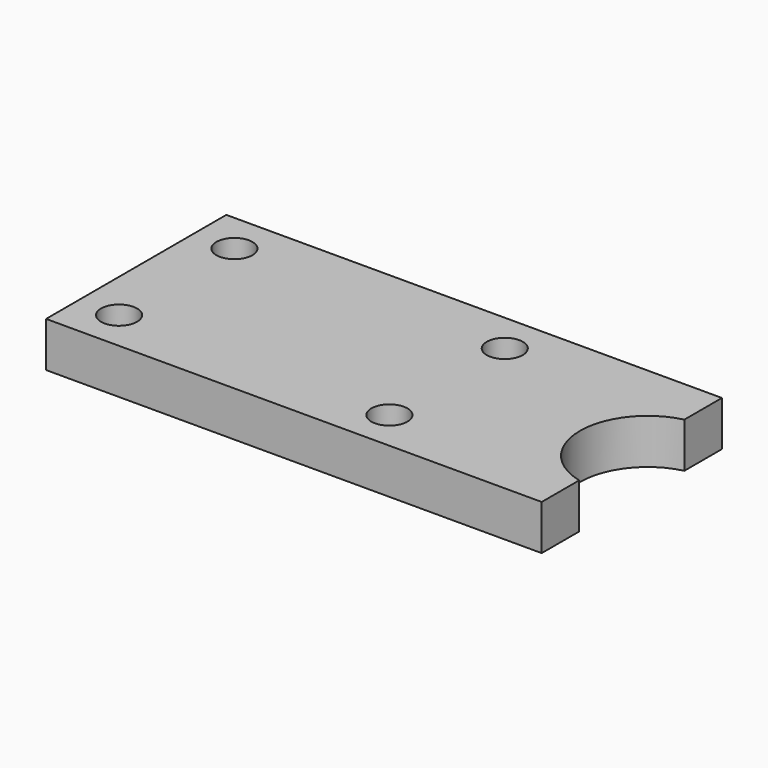
from build123d import *

# Parameters (mm, degrees)
F0_R     = 8
F1_DEPTH = 10


with BuildPart() as f1:
    # F0 (on Top) → F1 (new body, symmetric)
    with BuildSketch(Plane.XY):
        with BuildLine():
            Line((-110, -50), (110, -50))
            Line((110, -50), (110, -29.171904))
            ThreePointArc((110, -29.171904), (87, 0), (110, 29.171904))
            Line((110, 29.171904), (110, 50))
            Line((110, 50), (-110, 50))
            Line((-110, 50), (-110, -50))
        make_face()
        with Locations((-92, -32)):
            Circle(F0_R, mode=Mode.SUBTRACT)
        with Locations((28, -32)):
            Circle(F0_R, mode=Mode.SUBTRACT)
        with Locations((-92, 32)):
            Circle(F0_R, mode=Mode.SUBTRACT)
        with Locations((28, 32)):
            Circle(F0_R, mode=Mode.SUBTRACT)
    extrude(amount=F1_DEPTH, both=True)


solid = f1.part
